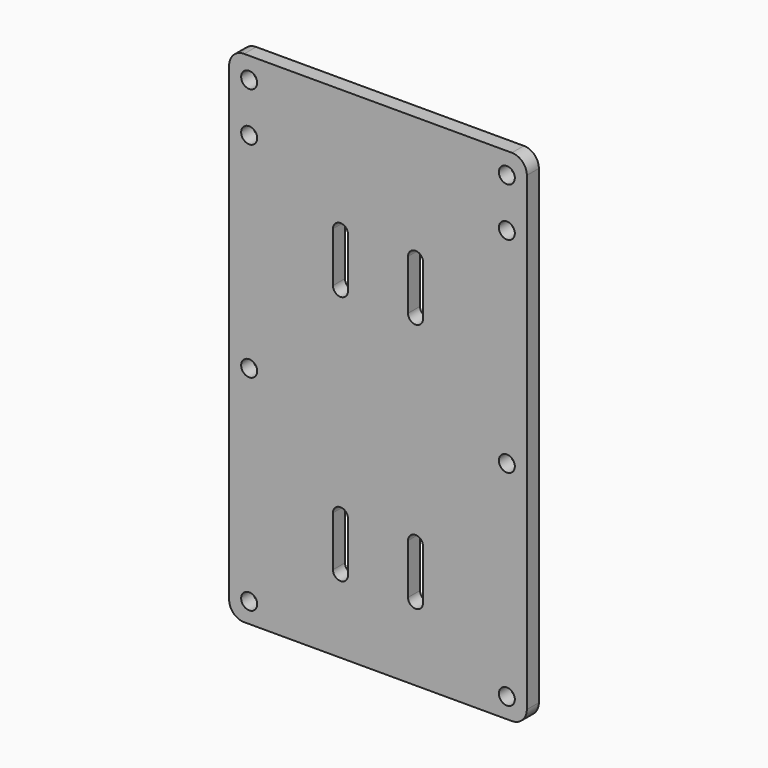
from build123d import *

# Parameters (mm, degrees)
SKETCH014_R         = 1.6
PAD004_DEPTH        = 3
POCKET011_DEPTH     = 3.00101
LINEARPATTERN_COUNT = 2
LINEARPATTERN_PITCH = 50


with BuildPart() as part:
    # Sketch014 (on Binder) → Pad004 (new body)
    with BuildSketch(Plane(origin=(1.2e-05, -70, 0), x_dir=(1, 0, 0), z_dir=(0, -1, 0))):
        with BuildLine():
            ThreePointArc((-26.75, 111), (-28.87132, 110.12132), (-29.75, 108))
            Line((-29.75, 14), (-29.75, 108))
            ThreePointArc((-29.75, 14), (-28.87132, 11.87868), (-26.75, 11))
            Line((26.75, 11), (-26.75, 11))
            ThreePointArc((26.75, 11), (28.87132, 11.87868), (29.75, 14))
            Line((29.75, 108), (29.75, 14))
            ThreePointArc((29.75, 108), (28.87132, 110.12132), (26.75, 111))
            Line((-26.75, 111), (26.75, 111))
        make_face()
        with Locations((-25.75, 97)):
            Circle(SKETCH014_R, mode=Mode.SUBTRACT)
        with Locations((25.75, 97)):
            Circle(SKETCH014_R, mode=Mode.SUBTRACT)
        with Locations((25.75, 56)):
            Circle(SKETCH014_R, mode=Mode.SUBTRACT)
        with Locations((-25.75, 56)):
            Circle(SKETCH014_R, mode=Mode.SUBTRACT)
        with Locations((-25.75, 15)):
            Circle(SKETCH014_R, mode=Mode.SUBTRACT)
        with Locations((25.75, 15)):
            Circle(SKETCH014_R, mode=Mode.SUBTRACT)
        with Locations((-25.75, 106.751)):
            Circle(SKETCH014_R, mode=Mode.SUBTRACT)
        with Locations((25.75, 106.751)):
            Circle(SKETCH014_R, mode=Mode.SUBTRACT)
    extrude(amount=PAD004_DEPTH)

    # Sketch019 (on Face18 of Pad004) → Pocket011 (cut, through all)
    with BuildSketch(Plane(origin=(1.2e-05, -73, 0), x_dir=(1, 0, 0), z_dir=(0, -1, 0))):
        with BuildLine():
            ThreePointArc((-6, 86), (-7.5, 87.5), (-9, 86))
            Line((-9, 86), (-9, 76))
            ThreePointArc((-9, 76), (-7.5, 74.5), (-6, 76))
            Line((-6, 76), (-6, 86))
        make_face()
        with BuildLine():
            ThreePointArc((9, 86), (7.5, 87.5), (6, 86))
            Line((6, 86), (6, 76))
            ThreePointArc((6, 76), (7.5, 74.5), (9, 76))
            Line((9, 76), (9, 86))
        make_face()
    pocket011 = extrude(amount=-POCKET011_DEPTH, mode=Mode.SUBTRACT)

    # LinearPattern: Pocket011 ×2
    with Locations(*[(0, 0, -i * LINEARPATTERN_PITCH) for i in range(1, LINEARPATTERN_COUNT)]):
        add(pocket011, mode=Mode.SUBTRACT)


solid = part.part
